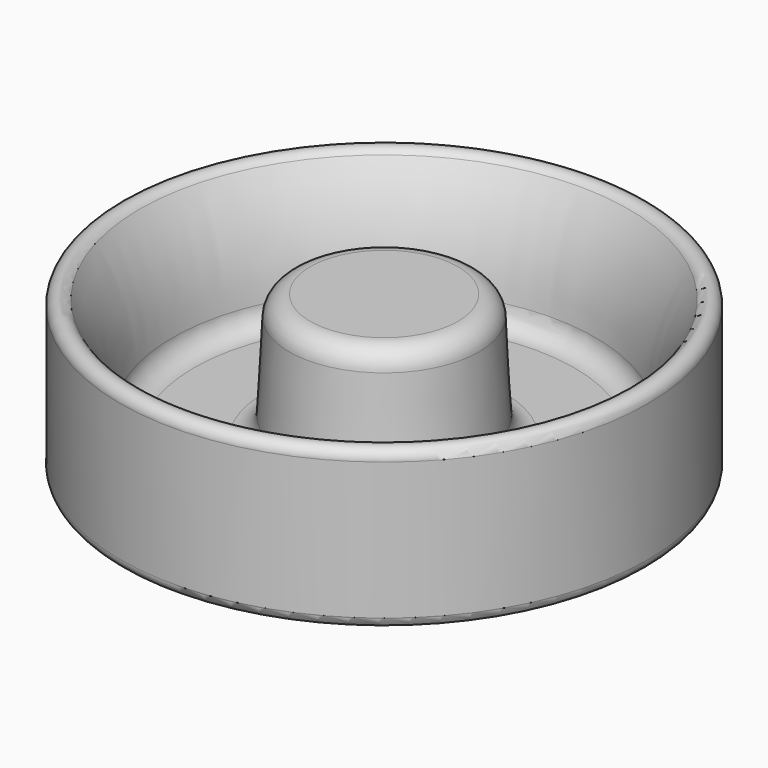
from build123d import *

# Parameters (mm, degrees)
HOLE_D           = 6
HOLE_DEPTH       = 6.5
HOLE_CSINK_D     = 6.5
HOLE_CSINK_ANGLE = 90


with BuildPart() as part:
    # Sketch → Revolution (revolve)
    with BuildSketch(Plane.XZ):
        with BuildLine():
            Line((12.5, 7), (12.5, 0.5))
            ThreePointArc((12, 0), (12.353553, 0.146447), (12.5, 0.5))
            Line((12, 0), (0, 0))
            Line((0, 7.5), (0, 0))
            Line((3.5, 7.5), (0, 7.5))
            ThreePointArc((4.49863, 6.552336), (4.188355, 7.225374), (3.5, 7.5))
            Line((4.49863, 6.552336), (4.713746, 2.447664))
            ThreePointArc((4.713746, 2.447664), (5.024021, 1.774626), (5.712376, 1.5))
            Line((5.712376, 1.5), (9.001751, 1.5))
            ThreePointArc((9.001751, 1.5), (9.687624, 1.772279), (10, 2.440844))
            ThreePointArc((11.579869, 7.27109), (10.47797, 4.958004), (10, 2.440844))
            ThreePointArc((12.5, 7), (12.141306, 7.479617), (11.579869, 7.27109))
        make_face()
    revolve(axis=Axis((0, 0, 0), (0, 0, 1)))

    # Hole
    with Locations(Plane(origin=(0, 0, 0), x_dir=(1, 0, 0), z_dir=(0, 0, -1))):
        with Locations((0, 0)):
            CounterSinkHole(HOLE_D / 2, HOLE_CSINK_D / 2, depth=HOLE_DEPTH, counter_sink_angle=HOLE_CSINK_ANGLE)


solid = part.part
